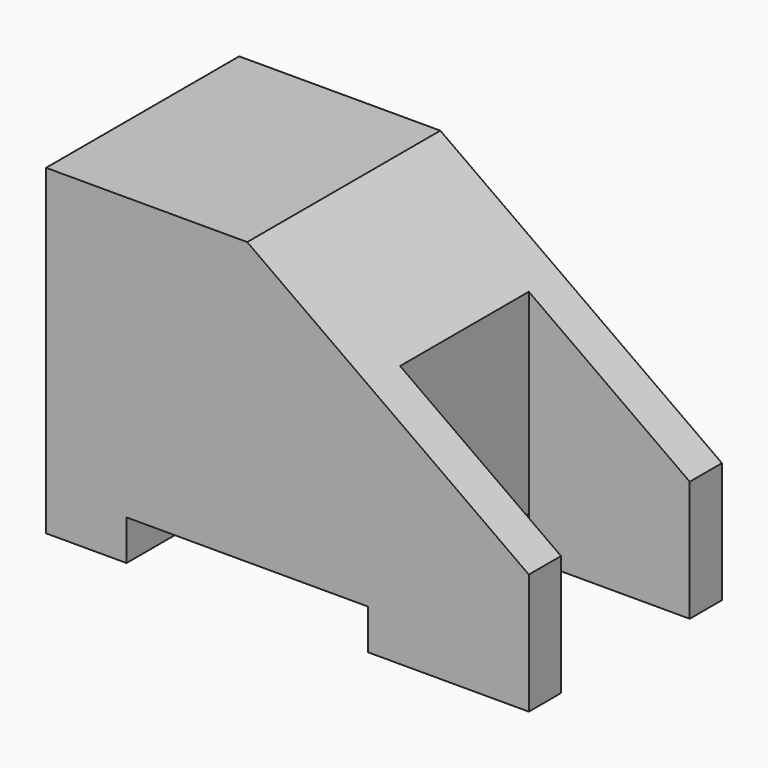
from build123d import *

# Parameters (mm, degrees)
F1_DEPTH = 15
F2_W     = 10
F2_H     = 10
F3_DEPTH = 25


with BuildPart() as f1:
    # F0 (on Front) → F1 (new body)
    with BuildSketch(Plane.XZ):
        Polygon((0, 20), (0, 0), (5, 0), (5, 2.5), (20, 2.5), (20, 0), (30, 0), (30, 7.5), (12.5, 20), align=None)
    extrude(amount=F1_DEPTH)

    # F2 (on Top) → F3 (cut)
    with BuildSketch(Plane.XY):
        with Locations((25, -7.5)):
            Rectangle(F2_W, F2_H)
    extrude(amount=F3_DEPTH, mode=Mode.SUBTRACT)


solid = f1.part
